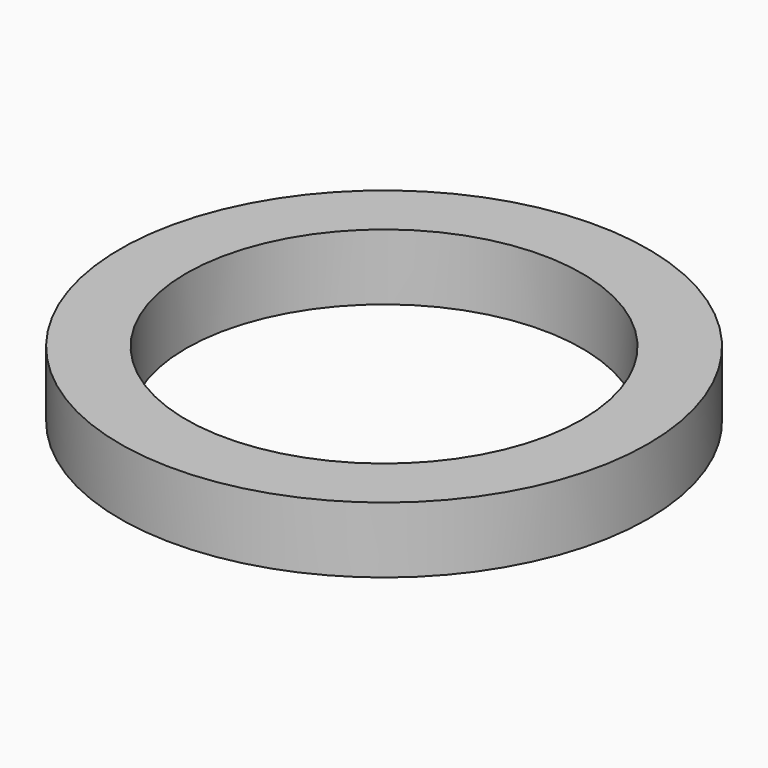
from build123d import *

# Parameters (mm, degrees)
CYLINDER154_R     = 7.14375
CYLINDER154_DEPTH = 2.38125
CYLINDER155_R     = 9.525
CYLINDER155_DEPTH = 2.38125


with BuildPart() as cylinder008:
    # Cylinder154 → Cylinder154 (new body)
    with BuildSketch(Plane.XY):
        Circle(CYLINDER154_R)
    extrude(amount=CYLINDER154_DEPTH)


with BuildPart() as oring:
    # Cylinder155 → Cylinder155 (new body)
    with BuildSketch(Plane.XY):
        Circle(CYLINDER155_R)
    extrude(amount=CYLINDER155_DEPTH)

    # Cut019: cut Cylinder008
    add(cylinder008.part, mode=Mode.SUBTRACT)


with BuildPart() as oring_1:
    # Cut019 placement: moved
    add(oring.part.moved(Location((0, 0, -0.75))))


solid = oring_1.part
